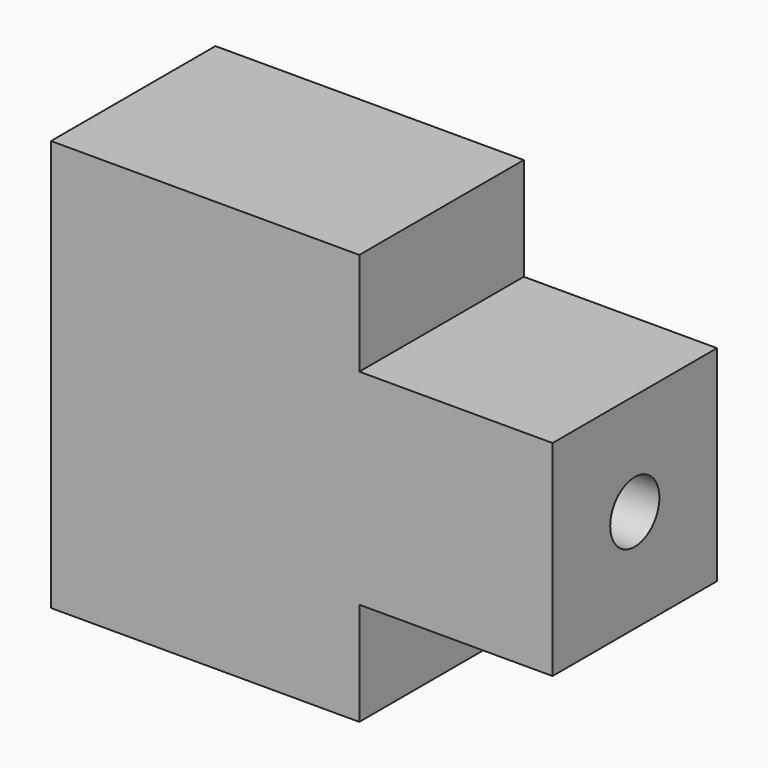
from build123d import *

# Parameters (mm, degrees)
F1_DEPTH = 12.7
F3_D     = 3.7973
F3_DEPTH = 9.652
F3_TIP   = 1.1408240143


with BuildPart() as f1:
    # F0 (on Front) → F1 (new body)
    with BuildSketch(Plane.XZ):
        Polygon((0, 25.4), (0, 0), (19.05, 0), (19.05, 6.3754), (30.988, 6.3754), (30.988, 19.05), (19.05, 19.05), (19.05, 25.4), align=None)
    extrude(amount=F1_DEPTH)

    # F3
    with Locations(Plane.YZ.offset(30.988)):
        with Locations((-6.35, 12.7254)):
            Hole(F3_D / 2, depth=F3_DEPTH)
            with Locations((0, 0, -(F3_DEPTH + F3_TIP / 2))):  # 118° drill point
                Cone(0, F3_D / 2, F3_TIP, mode=Mode.SUBTRACT)


solid = f1.part
